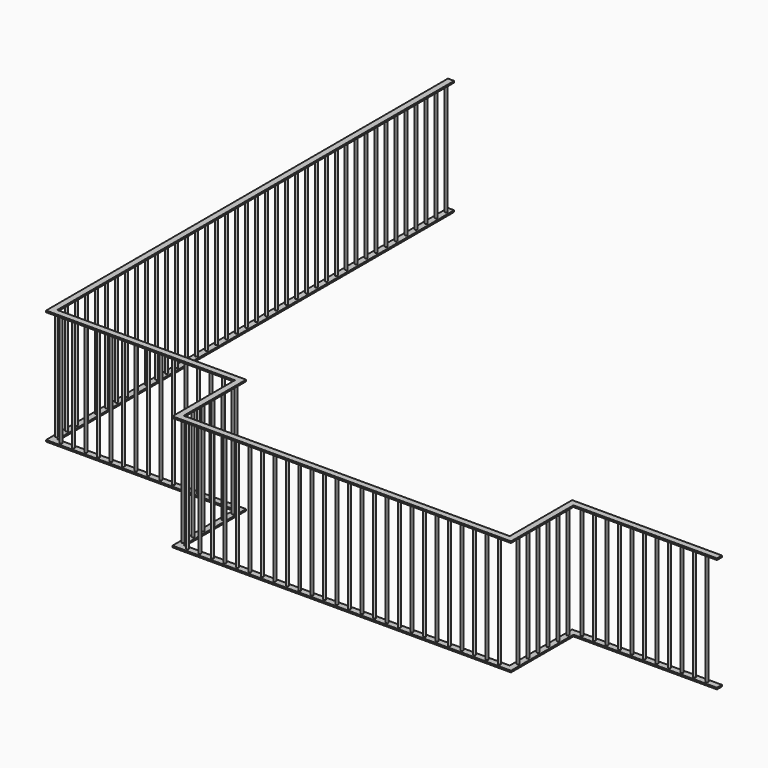
from build123d import *

# Parameters (mm, degrees)
F1_DEPTH = 12.7
F2_R     = 9.525
F3_DEPTH = 914.4
F5_DEPTH = 12.7


with BuildPart() as f1:
    # F0 (on Top) → F1 (new body)
    with BuildSketch(Plane.XY):
        Polygon((50.8, 0), (0, 0), (0, -4089.4), (50.8, -4089.4), (1536.7, -4089.4), (1536.7, -4038.6), (50.8, -4038.6), align=None)
        Polygon((1587.5, -4038.6), (1536.7, -4038.6), (1536.7, -4089.4), (1536.7, -4673.6), (1587.5, -4673.6), align=None)
        Polygon((1587.5, -4673.6), (1536.7, -4673.6), (1536.7, -4724.4), (4241.8, -4724.4), (4241.8, -4673.6), align=None)
        Polygon((4241.8, -4089.4), (4241.8, -4673.6), (4241.8, -4724.4), (4292.6, -4724.4), (4292.6, -4089.4), align=None)
        Polygon((4241.8, -4038.6), (4241.8, -4089.4), (4292.6, -4089.4), (5461, -4089.4), (5461, -4038.6), align=None)
    extrude(amount=F1_DEPTH)

    # F2 (on face) → F3 (join)
    with BuildSketch(Plane.XY.offset(12.7)):
        with Locations((25.4, -50.8)):
            Circle(F2_R)
        with Locations((25.4, -152.4)):
            Circle(F2_R)
        with Locations((25.4, -254)):
            Circle(F2_R)
        with Locations((25.4, -355.6)):
            Circle(F2_R)
        with Locations((25.4, -457.2)):
            Circle(F2_R)
        with Locations((25.4, -558.8)):
            Circle(F2_R)
        with Locations((25.4, -660.4)):
            Circle(F2_R)
        with Locations((25.4, -762)):
            Circle(F2_R)
        with Locations((25.4, -863.6)):
            Circle(F2_R)
        with Locations((25.4, -965.2)):
            Circle(F2_R)
        with Locations((25.4, -1066.8)):
            Circle(F2_R)
        with Locations((25.4, -1168.4)):
            Circle(F2_R)
        with Locations((25.4, -1270)):
            Circle(F2_R)
        with Locations((25.4, -1371.6)):
            Circle(F2_R)
        with Locations((25.4, -1473.2)):
            Circle(F2_R)
        with Locations((25.4, -1574.8)):
            Circle(F2_R)
        with Locations((25.4, -1676.4)):
            Circle(F2_R)
        with Locations((25.4, -1778)):
            Circle(F2_R)
        with Locations((25.4, -1879.6)):
            Circle(F2_R)
        with Locations((25.4, -1981.2)):
            Circle(F2_R)
        with Locations((25.4, -2082.8)):
            Circle(F2_R)
        with Locations((25.4, -2184.4)):
            Circle(F2_R)
        with Locations((25.4, -2286)):
            Circle(F2_R)
        with Locations((25.4, -2387.6)):
            Circle(F2_R)
        with Locations((25.4, -2489.2)):
            Circle(F2_R)
        with Locations((25.4, -2590.8)):
            Circle(F2_R)
        with Locations((25.4, -2692.4)):
            Circle(F2_R)
        with Locations((25.4, -2794)):
            Circle(F2_R)
        with Locations((25.4, -2895.6)):
            Circle(F2_R)
        with Locations((25.4, -2997.2)):
            Circle(F2_R)
        with Locations((25.4, -3098.8)):
            Circle(F2_R)
        with Locations((25.4, -3200.4)):
            Circle(F2_R)
        with Locations((25.4, -3302)):
            Circle(F2_R)
        with Locations((25.4, -3403.6)):
            Circle(F2_R)
        with Locations((25.4, -3505.2)):
            Circle(F2_R)
        with Locations((25.4, -3606.8)):
            Circle(F2_R)
        with Locations((25.4, -3708.4)):
            Circle(F2_R)
        with Locations((25.4, -3810)):
            Circle(F2_R)
        with Locations((25.4, -3911.6)):
            Circle(F2_R)
        with Locations((25.4, -4013.2)):
            Circle(F2_R)
        with Locations((101.6, -4064)):
            Circle(F2_R)
        with Locations((203.2, -4064)):
            Circle(F2_R)
        with Locations((304.8, -4064)):
            Circle(F2_R)
        with Locations((406.4, -4064)):
            Circle(F2_R)
        with Locations((508, -4064)):
            Circle(F2_R)
        with Locations((609.6, -4064)):
            Circle(F2_R)
        with Locations((711.2, -4064)):
            Circle(F2_R)
        with Locations((812.8, -4064)):
            Circle(F2_R)
        with Locations((914.4, -4064)):
            Circle(F2_R)
        with Locations((1016, -4064)):
            Circle(F2_R)
        with Locations((1117.6, -4064)):
            Circle(F2_R)
        with Locations((1219.2, -4064)):
            Circle(F2_R)
        with Locations((1320.8, -4064)):
            Circle(F2_R)
        with Locations((1422.4, -4064)):
            Circle(F2_R)
        with Locations((1524, -4064)):
            Circle(F2_R)
        with Locations((1562.1, -4140.2)):
            Circle(F2_R)
        with Locations((1562.1, -4241.8)):
            Circle(F2_R)
        with Locations((1562.1, -4343.4)):
            Circle(F2_R)
        with Locations((1562.1, -4445)):
            Circle(F2_R)
        with Locations((1562.1, -4546.6)):
            Circle(F2_R)
        with Locations((1562.1, -4648.2)):
            Circle(F2_R)
        with Locations((1638.3, -4699)):
            Circle(F2_R)
        with Locations((1739.9, -4699)):
            Circle(F2_R)
        with Locations((1841.5, -4699)):
            Circle(F2_R)
        with Locations((1943.1, -4699)):
            Circle(F2_R)
        with Locations((2044.7, -4699)):
            Circle(F2_R)
        with Locations((2146.3, -4699)):
            Circle(F2_R)
        with Locations((2247.9, -4699)):
            Circle(F2_R)
        with Locations((2349.5, -4699)):
            Circle(F2_R)
        with Locations((2451.1, -4699)):
            Circle(F2_R)
        with Locations((2552.7, -4699)):
            Circle(F2_R)
        with Locations((2654.3, -4699)):
            Circle(F2_R)
        with Locations((2755.9, -4699)):
            Circle(F2_R)
        with Locations((2857.5, -4699)):
            Circle(F2_R)
        with Locations((2959.1, -4699)):
            Circle(F2_R)
        with Locations((3060.7, -4699)):
            Circle(F2_R)
        with Locations((3162.3, -4699)):
            Circle(F2_R)
        with Locations((3263.9, -4699)):
            Circle(F2_R)
        with Locations((3365.5, -4699)):
            Circle(F2_R)
        with Locations((3467.1, -4699)):
            Circle(F2_R)
        with Locations((3568.7, -4699)):
            Circle(F2_R)
        with Locations((3670.3, -4699)):
            Circle(F2_R)
        with Locations((3771.9, -4699)):
            Circle(F2_R)
        with Locations((3873.5, -4699)):
            Circle(F2_R)
        with Locations((3975.1, -4699)):
            Circle(F2_R)
        with Locations((4076.7, -4699)):
            Circle(F2_R)
        with Locations((4178.3, -4699)):
            Circle(F2_R)
        with Locations((4267.2, -4622.8)):
            Circle(F2_R)
        with Locations((4267.2, -4521.2)):
            Circle(F2_R)
        with Locations((4267.2, -4419.6)):
            Circle(F2_R)
        with Locations((4267.2, -4318)):
            Circle(F2_R)
        with Locations((4267.2, -4216.4)):
            Circle(F2_R)
        with Locations((4267.2, -4114.8)):
            Circle(F2_R)
        with Locations((4343.4, -4064)):
            Circle(F2_R)
        with Locations((4445, -4064)):
            Circle(F2_R)
        with Locations((4546.6, -4064)):
            Circle(F2_R)
        with Locations((4648.2, -4064)):
            Circle(F2_R)
        with Locations((4749.8, -4064)):
            Circle(F2_R)
        with Locations((4851.4, -4064)):
            Circle(F2_R)
        with Locations((4953, -4064)):
            Circle(F2_R)
        with Locations((5054.6, -4064)):
            Circle(F2_R)
        with Locations((5156.2, -4064)):
            Circle(F2_R)
        with Locations((5257.8, -4064)):
            Circle(F2_R)
        with Locations((5359.4, -4064)):
            Circle(F2_R)
    extrude(amount=F3_DEPTH)

    # F4 (on face) → F5 (join)
    with BuildSketch(Plane.XY.offset(927.1)):
        Polygon((50.8, 0), (0, 0), (0, -4089.4), (50.8, -4089.4), (1536.7, -4089.4), (1536.7, -4038.6), (50.8, -4038.6), align=None)
        Polygon((1587.5, -4038.6), (1536.7, -4038.6), (1536.7, -4089.4), (1536.7, -4673.6), (1587.5, -4673.6), align=None)
        Polygon((1587.5, -4673.6), (1536.7, -4673.6), (1536.7, -4724.4), (4241.8, -4724.4), (4241.8, -4673.6), align=None)
        Polygon((4241.8, -4089.4), (4241.8, -4673.6), (4241.8, -4724.4), (4292.6, -4724.4), (4292.6, -4089.4), align=None)
        Polygon((4241.8, -4038.6), (4241.8, -4089.4), (4292.6, -4089.4), (5461, -4089.4), (5461, -4038.6), align=None)
    extrude(amount=F5_DEPTH)


solid = f1.part
